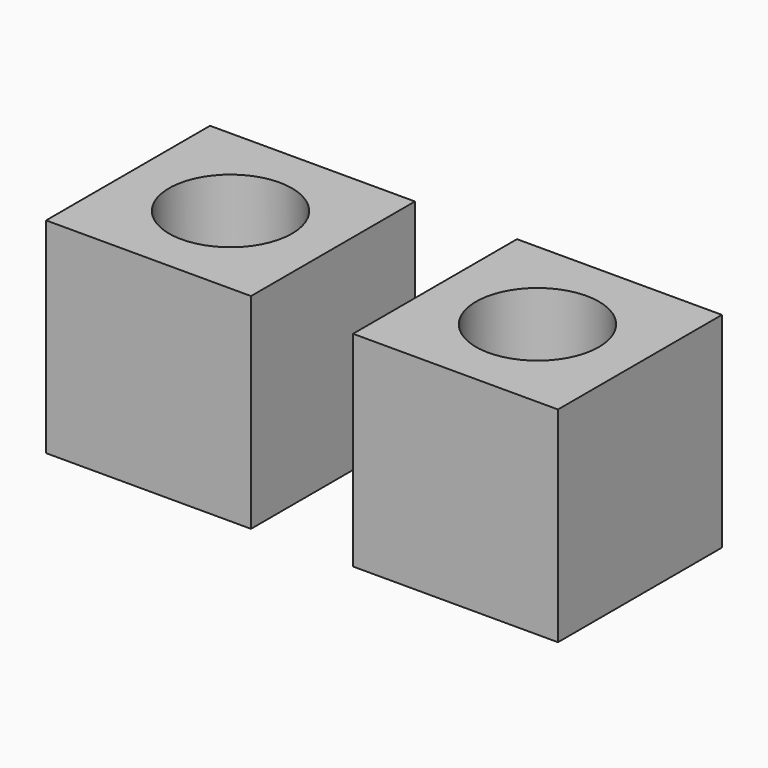
from build123d import *

# Parameters (mm, degrees)
F0_W     = 50
F0_H     = 50
F1_DEPTH = 50
F2_R     = 15
F3_DEPTH = 50
F4_W     = 50
F4_H     = 50
F4_R     = 15
F5_DEPTH = 50
F6_DEPTH = 50


with BuildPart() as f1:
    # F0 (on Top) → F1 (new body)
    with BuildSketch(Plane.XY):
        Rectangle(F0_W, F0_H)
    extrude(amount=F1_DEPTH)

    # F2 (on face) → F3 (cut)
    with BuildSketch(Plane.XY.offset(50)):
        Circle(F2_R)
    extrude(amount=-F3_DEPTH, mode=Mode.SUBTRACT)


with BuildPart() as f5:
    # F4 (on Top) → F5 (new body)
    with BuildSketch(Plane.XY):
        with Locations((74.897081, 0)):
            Rectangle(F4_W, F4_H)
        with Locations((74.897081, 0)):
            Circle(F4_R, mode=Mode.SUBTRACT)
    extrude(amount=F5_DEPTH)

    # F4 (on Top) → F6 (join)
    with BuildSketch(Plane.XY):
        with Locations((74.897081, 0)):
            Rectangle(F4_W, F4_H)
        with Locations((74.897081, 0)):
            Circle(F4_R, mode=Mode.SUBTRACT)
    extrude(amount=F6_DEPTH)


solid = Compound([f1.part, f5.part])
